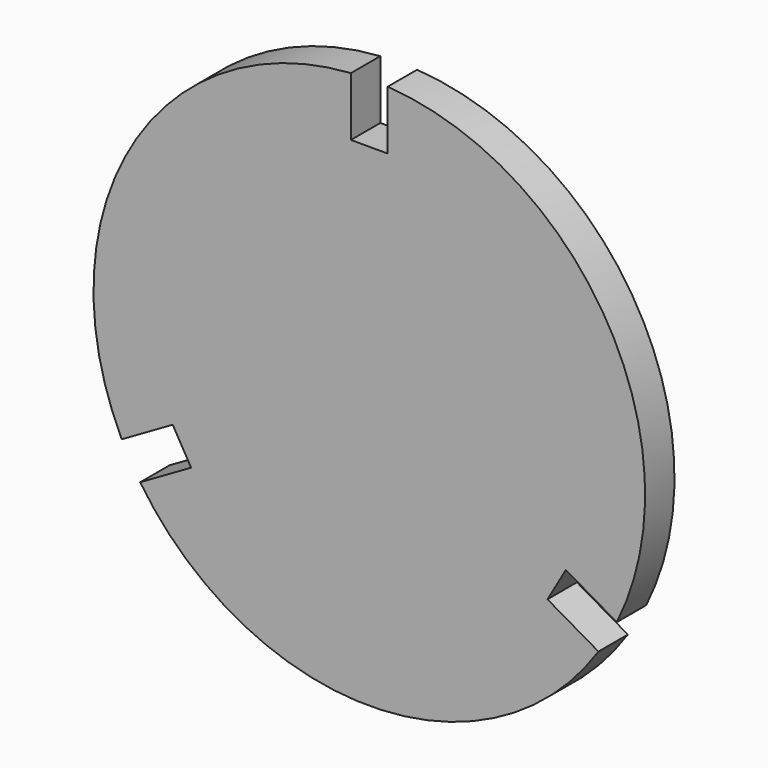
from build123d import *

# Parameters (mm, degrees)
F1_DEPTH = 0.635


with BuildPart() as f1:
    # F0 (on Front) → F1 (new body, symmetric)
    with BuildSketch(Plane.XZ):
        with BuildLine():
            Line((-0.635, 7.47181), (-0.635, 9.50381))
            ThreePointArc((-0.635, 9.50381), (-8.248892, 4.7625), (-8.548041, -4.201979))
            Line((-8.548041, -4.201979), (-6.788277, -3.185979))
            Line((-6.788277, -3.185979), (-6.153277, -4.285831))
            Line((-6.153277, -4.285831), (-7.913041, -5.301831))
            ThreePointArc((-7.913041, -5.301831), (0, -9.525), (7.913041, -5.301831))
            Line((7.913041, -5.301831), (6.153277, -4.285831))
            Line((6.153277, -4.285831), (6.788277, -3.185979))
            Line((6.788277, -3.185979), (8.548041, -4.201979))
            ThreePointArc((8.548041, -4.201979), (8.248892, 4.7625), (0.635, 9.50381))
            Line((0.635, 9.50381), (0.635, 7.47181))
            Line((0.635, 7.47181), (-0.635, 7.47181))
        make_face()
    extrude(amount=F1_DEPTH, both=True)


solid = f1.part
